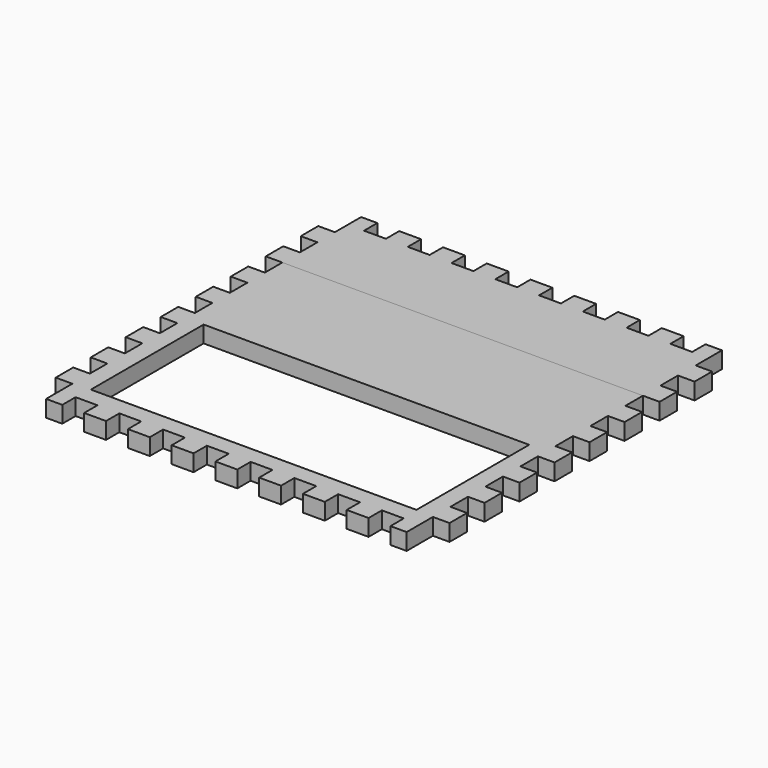
from build123d import *

# Parameters (mm, degrees)
F1_DEPTH = 9.652
F0_W     = 188.976
F0_H     = 81.788
F2_DEPTH = 9.652


with BuildPart() as f1:
    # F0 (on Top) → F1 (new body)
    with BuildSketch(Plane.XY):
        Polygon((19.05, 0), (9.652, 0), (9.652, -19.05), (0, -19.05), (0, -31.75), (9.652, -31.75), (9.652, -44.45), (0, -44.45), (0, -57.15), (9.652, -57.15), (218.948, -57.15), (228.6, -57.15), (228.6, -44.45), (218.948, -44.45), (218.948, -31.75), (228.6, -31.75), (228.6, -19.05), (219.075, -19.05), (219.075, 0), (209.55, 0), (209.55, -9.652), (196.85, -9.652), (196.85, 0), (184.15, 0), (184.15, -9.652), (171.45, -9.652), (171.45, 0), (158.75, 0), (158.75, -9.652), (146.05, -9.652), (146.05, 0), (133.35, 0), (133.35, -9.652), (120.65, -9.652), (120.65, 0), (107.95, 0), (107.95, -9.652), (95.25, -9.652), (95.25, 0), (82.55, 0), (82.55, -9.652), (69.85, -9.652), (69.85, 0), (57.15, 0), (57.15, -9.652), (44.45, -9.652), (44.45, 0), (31.75, 0), (31.75, -9.652), (19.05, -9.652), align=None)
    extrude(amount=F1_DEPTH)


with BuildPart() as f2:
    # F0 (on Top) → F2 (new body)
    with BuildSketch(Plane.XY):
        Polygon((218.948, -57.15), (9.652, -57.15), (9.652, -69.85), (0, -69.85), (0, -82.55), (9.652, -82.55), (9.652, -95.25), (0, -95.25), (0, -107.95), (9.652, -107.95), (9.652, -120.65), (0, -120.65), (0, -133.35), (9.652, -133.35), (9.652, -146.05), (0, -146.05), (0, -158.75), (9.652, -158.75), (9.652, -171.45), (0, -171.45), (0, -184.15), (9.652, -184.15), (9.652, -196.85), (0, -196.85), (0, -209.55), (9.652, -209.55), (9.652, -228.6), (19.05, -228.6), (19.05, -218.948), (31.75, -218.948), (31.75, -228.6), (44.45, -228.6), (44.45, -218.948), (57.15, -218.948), (57.15, -228.6), (69.85, -228.6), (69.85, -218.948), (82.55, -218.948), (82.55, -228.6), (95.25, -228.6), (95.25, -218.948), (107.95, -218.948), (107.95, -228.6), (120.65, -228.6), (120.65, -218.948), (133.35, -218.948), (133.35, -228.6), (146.05, -228.6), (146.05, -218.948), (158.75, -218.948), (158.75, -228.6), (171.45, -228.6), (171.45, -218.948), (184.15, -218.948), (184.15, -228.6), (196.85, -228.6), (196.85, -218.948), (209.55, -218.948), (209.55, -228.6), (218.948, -228.6), (218.948, -209.55), (228.6, -209.55), (228.6, -196.85), (218.948, -196.85), (218.948, -184.15), (228.6, -184.15), (228.6, -171.45), (218.948, -171.45), (218.948, -158.75), (228.6, -158.75), (228.6, -146.05), (218.948, -146.05), (218.948, -133.35), (228.6, -133.35), (228.6, -120.65), (218.948, -120.65), (218.948, -107.95), (228.6, -107.95), (228.6, -95.25), (218.948, -95.25), (218.948, -82.55), (228.6, -82.55), (228.6, -69.85), (218.948, -69.85), align=None)
        with Locations((114.3, -167.894)):
            Rectangle(F0_W, F0_H, mode=Mode.SUBTRACT)
    extrude(amount=F2_DEPTH)


solid = Compound([f1.part, f2.part])
